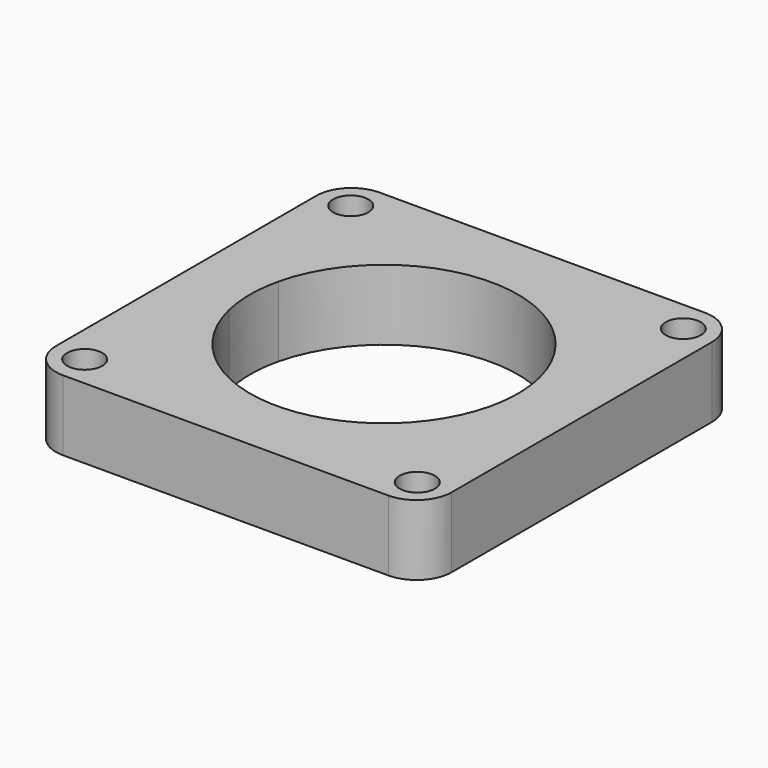
from build123d import *

# Parameters (mm, degrees)
F1_START = 69
F0_R     = 2.5
F1_DEPTH = 10
F2_R     = 5


with BuildPart() as f1:
    # F0 (on Top) → F1 (new body)
    with BuildSketch(Plane.XY.offset(F1_START)):
        with BuildLine():
            Line((28.115, 28.115), (-28.115, 28.115))
            Line((-28.115, 28.115), (-28.115, 7.6560907126))
            ThreePointArc((-28.115, 7.6560907126), (-22.7514332101, 7.7037324483), (-18.5240804258, 4.4022771811))
            ThreePointArc((-18.5240804258, 4.4022771811), (0, 19.04), (18.5240804258, 4.4022771811))
            ThreePointArc((18.5240804258, 4.4022771811), (22.7514332101, 7.7037324483), (28.115, 7.6560907126))
            Line((28.115, 7.6560907126), (28.115, 28.115))
        make_face()
        with Locations((-23.62, 23.62)):
            Circle(F0_R, mode=Mode.SUBTRACT)
        with Locations((23.62, 23.62)):
            Circle(F0_R, mode=Mode.SUBTRACT)
        with BuildLine():
            ThreePointArc((-18.5240804258, 4.4022771811), (-22.7514332101, 7.7037324483), (-28.115, 7.6560907126))
            Line((-28.115, 7.6560907126), (-28.115, 2.0247777656))
            ThreePointArc((-28.115, 2.0247777656), (-24.2994074418, 3.2444934119), (-21.95, 0))
            ThreePointArc((-21.95, 0), (-24.2994074418, -3.2444934119), (-28.115, -2.0247777656))
            Line((-28.115, -2.0247777656), (-28.115, -7.6560907126))
            ThreePointArc((-28.115, -7.6560907126), (-22.7514332101, -7.7037324483), (-18.5240804258, -4.4022771811))
            ThreePointArc((-18.5240804258, -4.4022771811), (-19.04, 0), (-18.5240804258, 4.4022771811))
        make_face()
        with BuildLine():
            ThreePointArc((-21.95, 0), (-24.2994074418, 3.2444934119), (-28.115, 2.0247777656))
            Line((-28.115, 2.0247777656), (-28.115, -2.0247777656))
            ThreePointArc((-28.115, -2.0247777656), (-24.2994074418, -3.2444934119), (-21.95, 0))
        make_face()
        with BuildLine():
            ThreePointArc((-18.5240804258, -4.4022771811), (-22.7514332101, -7.7037324483), (-28.115, -7.6560907126))
            Line((-28.115, -7.6560907126), (-28.115, -28.115))
            Line((-28.115, -28.115), (-7.6560907126, -28.115))
            ThreePointArc((-7.6560907126, -28.115), (-7.7037324483, -22.7514332101), (-4.4022771811, -18.5240804258))
            ThreePointArc((-4.4022771811, -18.5240804258), (-13.4633131138, -13.4633131138), (-18.5240804258, -4.4022771811))
        make_face()
        with Locations((-23.62, -23.62)):
            Circle(F0_R, mode=Mode.SUBTRACT)
        with BuildLine():
            ThreePointArc((4.4022771811, -18.5240804258), (0, -19.04), (-4.4022771811, -18.5240804258))
            ThreePointArc((-4.4022771811, -18.5240804258), (-7.7037324483, -22.7514332101), (-7.6560907126, -28.115))
            Line((-7.6560907126, -28.115), (-2.0247777656, -28.115))
            ThreePointArc((-2.0247777656, -28.115), (-1.5407155692, -22.3173089831), (3.415, -25.365))
            ThreePointArc((3.415, -25.365), (3.0476910169, -26.9057155692), (2.0247777656, -28.115))
            Line((2.0247777656, -28.115), (7.6560907126, -28.115))
            ThreePointArc((7.6560907126, -28.115), (8.0143784209, -26.7606946394), (8.135, -25.365))
            ThreePointArc((8.135, -25.365), (7.1411046018, -21.4684823155), (4.4022771811, -18.5240804258))
        make_face()
        with BuildLine():
            ThreePointArc((3.415, -25.365), (-1.5407155692, -22.3173089831), (-2.0247777656, -28.115))
            Line((-2.0247777656, -28.115), (2.0247777656, -28.115))
            ThreePointArc((2.0247777656, -28.115), (3.0476910169, -26.9057155692), (3.415, -25.365))
        make_face()
        with BuildLine():
            Line((28.115, -28.115), (28.115, -7.6560907126))
            ThreePointArc((28.115, -7.6560907126), (22.7514332101, -7.7037324483), (18.5240804258, -4.4022771811))
            ThreePointArc((18.5240804258, -4.4022771811), (13.4633131138, -13.4633131138), (4.4022771811, -18.5240804258))
            ThreePointArc((4.4022771811, -18.5240804258), (7.1411046018, -21.4684823155), (8.135, -25.365))
            ThreePointArc((8.135, -25.365), (8.0143784209, -26.7606946394), (7.6560907126, -28.115))
            Line((7.6560907126, -28.115), (28.115, -28.115))
        make_face()
        with Locations((23.62, -23.62)):
            Circle(F0_R, mode=Mode.SUBTRACT)
        with BuildLine():
            Line((28.115, 2.0247777656), (28.115, 7.6560907126))
            ThreePointArc((28.115, 7.6560907126), (22.7514332101, 7.7037324483), (18.5240804258, 4.4022771811))
            ThreePointArc((18.5240804258, 4.4022771811), (18.9105802569, 2.2162026862), (19.04, 0))
            ThreePointArc((19.04, 0), (18.9105802569, -2.2162026862), (18.5240804258, -4.4022771811))
            ThreePointArc((18.5240804258, -4.4022771811), (22.7514332101, -7.7037324483), (28.115, -7.6560907126))
            Line((28.115, -7.6560907126), (28.115, -2.0247777656))
            ThreePointArc((28.115, -2.0247777656), (21.95, 0), (28.115, 2.0247777656))
        make_face()
        with BuildLine():
            Line((28.115, -2.0247777656), (28.115, 2.0247777656))
            ThreePointArc((28.115, 2.0247777656), (21.95, 0), (28.115, -2.0247777656))
        make_face()
    extrude(amount=F1_DEPTH)

    # F2
    f2_edges = [f1.edges().sort_by_distance(p)[0] for p in [
        (-28.115, -28.115, 74),
        (-28.115, 28.115, 74),
        (28.115, 28.115, 74),
        (28.115, -28.115, 74),
    ]]
    fillet(f2_edges, radius=F2_R)


solid = f1.part
